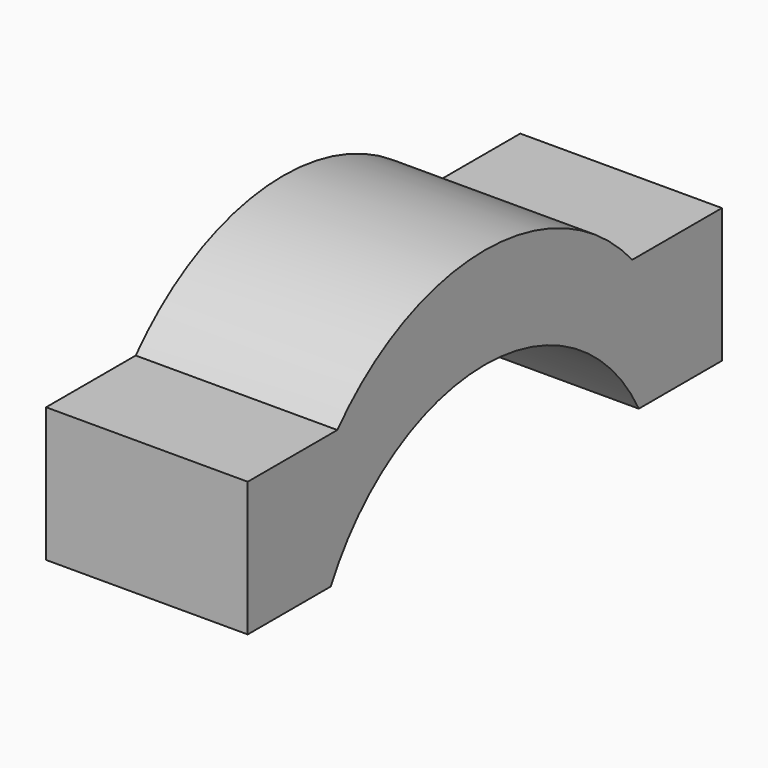
from build123d import *

# Parameters (mm, degrees)
F1_DEPTH = 36


with BuildPart() as f1:
    # F0 (on Right) → F1 (new body)
    with BuildSketch(Plane.YZ):
        with BuildLine():
            Line((34.363631, 0), (52.909084, 0))
            Line((52.909084, 0), (52.909084, 23.999999))
            Line((52.909084, 23.999999), (32.909084, 23.999999))
            ThreePointArc((32.909084, 23.999999), (0, 38.884866), (-32.909084, 23.999999))
            Line((-32.909084, 23.999999), (-52.909084, 23.999999))
            Line((-52.909084, 23.999999), (-52.909084, 0))
            Line((-52.909084, 0), (-34.363631, 0))
            ThreePointArc((-34.363631, 0), (0, 20.881699), (34.363631, 0))
        make_face()
    extrude(amount=F1_DEPTH)


solid = f1.part
